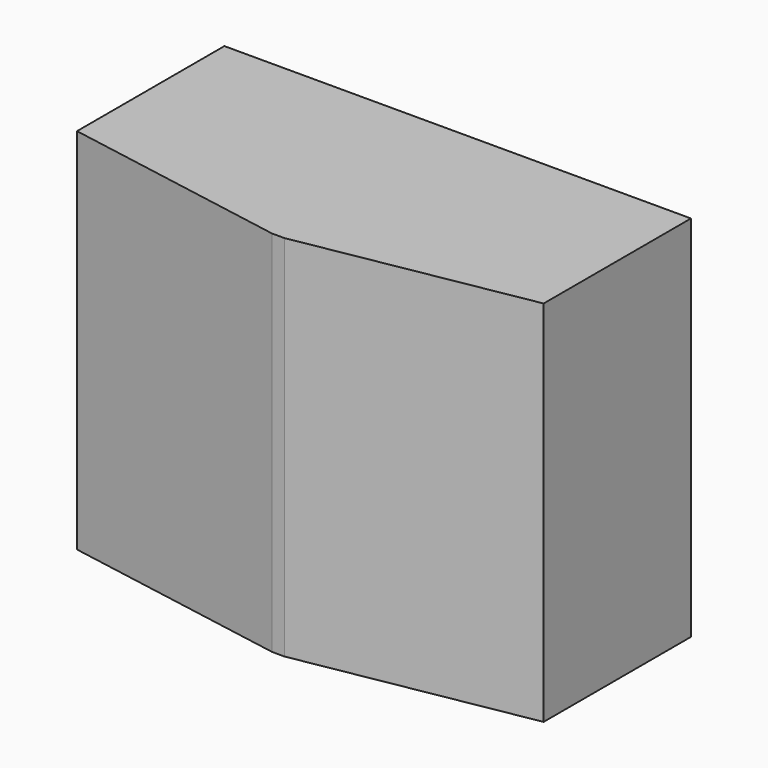
from build123d import *

# Parameters (mm, degrees)
F0_W     = 380
F0_H     = 10
F0_W_2   = 10
F0_H_2   = 120
F1_DEPTH = 300


with BuildPart() as f1:
    # F0 (on Top) → F1 (new body)
    with BuildSketch(Plane.XY):
        with Locations((190, -5)):
            Rectangle(F0_W, F0_H)
        Polygon((380, -10), (0, -10), (0, -150), (185, -182.620491), (185, -62.620491), (195, -62.620491), (195, -182.620491), (380, -150), align=None)
        with Locations((190, -122.620491)):
            Rectangle(F0_W_2, F0_H_2)
    extrude(amount=F1_DEPTH)


solid = f1.part
